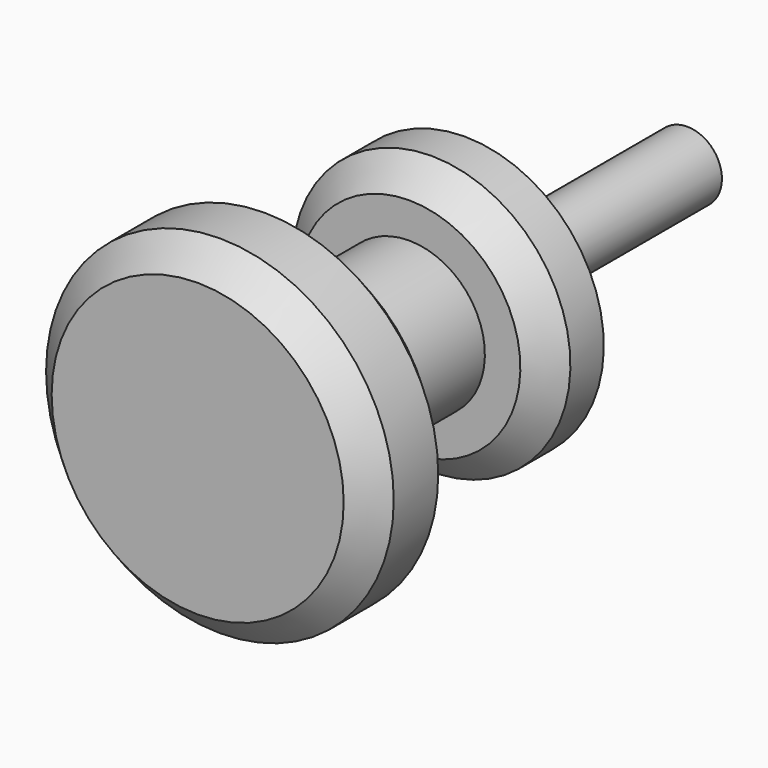
from build123d import *

# Parameters (mm, degrees)
F2_SIZE = 2


with BuildPart() as f1:
    # F0 (on Right) → F1 (revolve)
    with BuildSketch(Plane.YZ):
        Polygon((10, 0), (10, 2.495), (-10, 2.495), (-10, 10), (-15, 10), (-15, 5.448374), (-26.005056, 5.448374), (-26.005056, 12.5), (-34.005056, 12.5), (-34.005056, 0), align=None)
    revolve(axis=Axis((0, -12.754492, 0), (0, 1, 0)))

    # F2
    f2_edges = [f1.edges().sort_by_distance(p)[0] for p in [
        (0, -34.005056, -12.5),
        (0, -26.005056, -12.5),
        (0, -15, -10),
    ]]
    chamfer(f2_edges, length=F2_SIZE)


solid = f1.part
